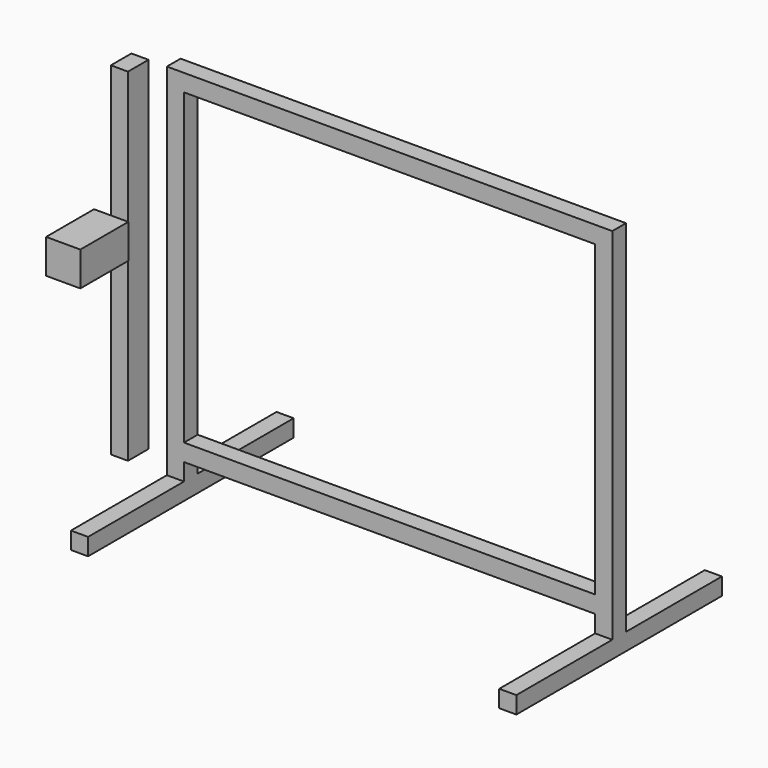
from build123d import *

# Parameters (mm, degrees)
F1_DEPTH      = 50.8
F1_DEPTH_BACK = 50.8
F0_W          = 101.6
F0_H          = 101.6
F2_DEPTH      = 762
F2_DEPTH_BACK = 762
F3_W          = 101.6
F3_H          = 2032
F4_DEPTH      = 152.4
F5_W          = 355.6
F5_H          = 203.2
F6_DEPTH      = 203.2
F7_DEPTH      = 203.2


with BuildPart() as f1:
    # F0 (on Front) → F1 (new body, two sides)
    with BuildSketch(Plane.XZ) as f1_sk:
        Polygon((-1219.2, 203.2), (0, 203.2), (1219.2, 203.2), (1219.2, 101.6), (1320.8, 101.6), (1320.8, 2235.2), (0, 2235.2), (-1320.8, 2235.2), (-1320.8, 101.6), (-1219.2, 101.6), align=None)
        Polygon((-1219.2, 2133.6), (0, 2133.6), (1219.2, 2133.6), (1219.2, 304.8), (0, 304.8), (-1219.2, 304.8), align=None, mode=Mode.SUBTRACT)
    extrude(amount=F1_DEPTH)
    extrude(f1_sk.sketch, amount=-F1_DEPTH_BACK)

    # F0 (on Front) → F2 (join, two sides)
    with BuildSketch(Plane.XZ) as f2_sk:
        with Locations((-1270, 50.8)):
            Rectangle(F0_W, F0_H)
        with Locations((1270, 50.8)):
            Rectangle(F0_W, F0_H)
    extrude(amount=F2_DEPTH)
    extrude(f2_sk.sketch, amount=-F2_DEPTH_BACK)


with BuildPart() as f4:
    # F3 (on face) → F4 (new body)
    with BuildSketch(Plane.XZ.offset(50.8)):
        with Locations((-1480.374272, 1219.2)):
            Rectangle(F3_W, F3_H)
    extrude(amount=F4_DEPTH)


with BuildPart() as f6:
    # F5 (on face) → F6 (new body)
    with BuildSketch(Plane.YZ.offset(-1429.574272)):
        with Locations((-632.513505, 1517.570019)):
            Rectangle(F5_W, F5_H)
    extrude(amount=F6_DEPTH)

    # F5 (on face) → F7 (join)
    with BuildSketch(Plane.YZ.offset(-1429.574272)):
        with Locations((-632.513505, 1517.570019)):
            Rectangle(F5_W, F5_H)
    extrude(amount=F7_DEPTH)


solid = Compound([f1.part, f4.part, f6.part])
